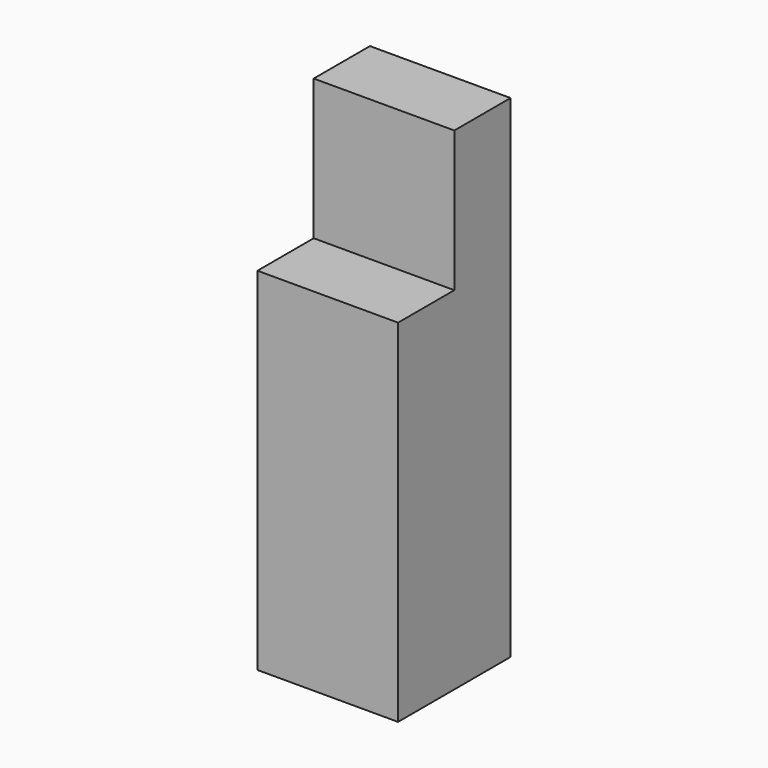
from build123d import *

# Parameters (mm, degrees)
F0_W     = 20
F0_H     = 20
F0_H_2   = 50
F1_DEPTH = 20
F2_DEPTH = 10


with BuildPart() as f1:
    # F0 (on Front) → F1 (new body)
    with BuildSketch(Plane.XZ):
        with Locations((-4.364679, 34.713301)):
            Rectangle(F0_W, F0_H)
        with Locations((-4.364679, -0.286699)):
            Rectangle(F0_W, F0_H_2)
    extrude(amount=-F1_DEPTH)

    # F0 (on Front) → F2 (cut)
    with BuildSketch(Plane.XZ):
        with Locations((-4.364679, 34.713301)):
            Rectangle(F0_W, F0_H)
    extrude(amount=-F2_DEPTH, mode=Mode.SUBTRACT)


solid = f1.part
